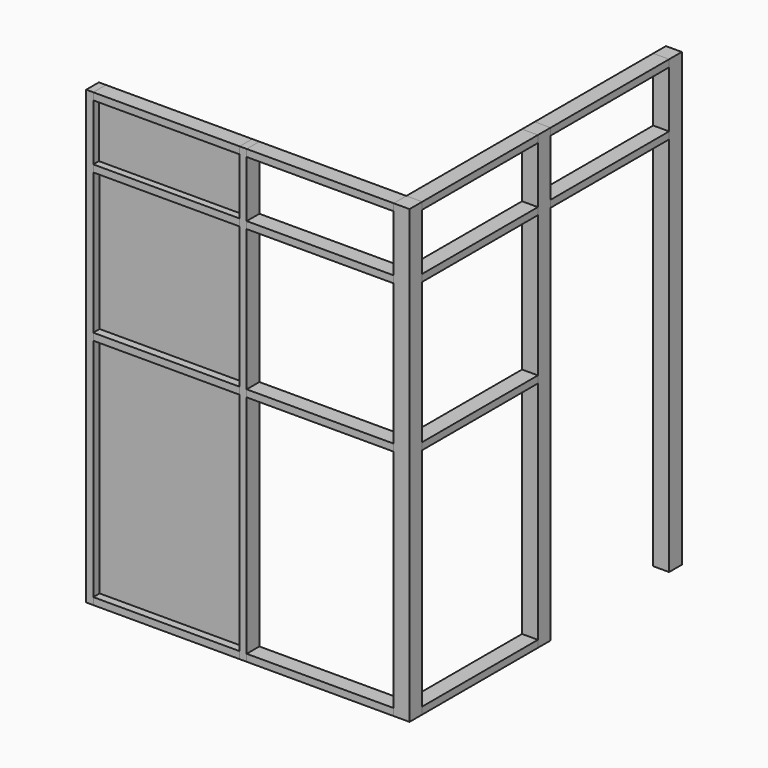
from build123d import *

# Parameters (mm, degrees)
F0_W      = 38.1
F0_H      = 85.725
F1_DEPTH  = 2438.4
F0_W_2    = 85.725
F3_W      = 85.725
F3_H      = 38.1
F4_DEPTH  = 790.575
F2_W      = 85.725
F2_H      = 38.1
F5_DEPTH  = 793.75
F6_W      = 85.725
F6_H      = 38.1
F7_DEPTH  = 781.05
F8_W      = 85.725
F8_H      = 38.1
F9_DEPTH  = 781.05
F10_W     = 85.725
F10_H     = 38.1
F11_DEPTH = 793.75
F12_W     = 85.725
F12_H     = 38.1
F13_DEPTH = 790.575
F14_W     = 85.725
F14_H     = 38.1
F15_DEPTH = 800.1
F16_W     = 85.725
F16_H     = 38.1
F17_DEPTH = 790.575
F18_W     = 85.725
F18_H     = 38.1
F19_DEPTH = 793.75
F20_W     = 85.725
F20_H     = 38.1
F21_DEPTH = 781.05
F22_W     = 85.725
F22_H     = 38.1
F23_DEPTH = 800.1
F24_W     = 85.725
F24_H     = 38.1
F25_DEPTH = 781.05
F26_W     = 85.725
F26_H     = 38.1
F27_DEPTH = 793.75
F28_W     = 85.725
F28_H     = 38.1
F29_DEPTH = 790.575
F30_W     = 790.575
F30_H     = 9.525
F31_DEPTH = 1219.2
F32_W     = 790.575
F32_H     = 9.525
F33_DEPTH = 762
F34_W     = 790.575
F34_H     = 9.525
F35_DEPTH = 304.8


with BuildPart() as f1:
    # F0 (on Top) → F1 (new body)
    with BuildSketch(Plane.XY):
        with Locations((19.05, 42.8625)):
            Rectangle(F0_W, F0_H)
    extrude(amount=F1_DEPTH)


with BuildPart() as f1b:
    # F0 (on Top) → F1, piece 2 (new body)
    with BuildSketch(Plane.XY):
        with Locations((847.725, 42.8625)):
            Rectangle(F0_W, F0_H)
    extrude(amount=F1_DEPTH)


with BuildPart() as f1c:
    # F0 (on Top) → F1, piece 3 (new body)
    with BuildSketch(Plane.XY):
        with Locations((1703.3875, 42.8625)):
            Rectangle(F0_W_2, F0_H)
    extrude(amount=F1_DEPTH)


with BuildPart() as f1d:
    # F0 (on Top) → F1, piece 4 (new body)
    with BuildSketch(Plane.XY):
        with Locations((1703.3875, 909.6375)):
            Rectangle(F0_W_2, F0_H)
    extrude(amount=F1_DEPTH)


with BuildPart() as f1e:
    # F0 (on Top) → F1, piece 5 (new body)
    with BuildSketch(Plane.XY):
        with Locations((1703.3875, 1795.4625)):
            Rectangle(F0_W_2, F0_H)
    extrude(amount=F1_DEPTH)


with BuildPart() as f4:
    # F3 (on face) → F4 (new body, through all)
    with BuildSketch(Plane.YZ.offset(38.1)):
        with Locations((42.8625, 19.05)):
            Rectangle(F3_W, F3_H)
    extrude(amount=F4_DEPTH)


with BuildPart() as f5:
    # F2 (on face) → F5 (new body)
    with BuildSketch(Plane.YZ.offset(866.775)):
        with Locations((42.8625, 19.05)):
            Rectangle(F2_W, F2_H)
    extrude(amount=F5_DEPTH)


with BuildPart() as f7:
    # F6 (on face) → F7 (new body, through all)
    with BuildSketch(Plane(origin=(0, 85.725, 0), x_dir=(-1, 0, 0), z_dir=(0, 1, 0))):
        with Locations((-1703.3875, 19.05)):
            Rectangle(F6_W, F6_H)
    extrude(amount=F7_DEPTH)


with BuildPart() as f9:
    # F8 (on face) → F9 (new body, through all)
    with BuildSketch(Plane(origin=(0, 85.725, 0), x_dir=(-1, 0, 0), z_dir=(0, 1, 0))):
        with Locations((-1703.3875, 2419.35)):
            Rectangle(F8_W, F8_H)
    extrude(amount=F9_DEPTH)


with BuildPart() as f11:
    # F10 (on face) → F11 (new body, through all)
    with BuildSketch(Plane.YZ.offset(866.775)):
        with Locations((42.8625, 2419.35)):
            Rectangle(F10_W, F10_H)
    extrude(amount=F11_DEPTH)


with BuildPart() as f13:
    # F12 (on face) → F13 (new body, through all)
    with BuildSketch(Plane.YZ.offset(38.1)):
        with Locations((42.8625, 2419.35)):
            Rectangle(F12_W, F12_H)
    extrude(amount=F13_DEPTH)


with BuildPart() as f15:
    # F14 (on face) → F15 (new body, through all)
    with BuildSketch(Plane(origin=(0, 952.5, 0), x_dir=(-1, 0, 0), z_dir=(0, 1, 0))):
        with Locations((-1703.3875, 2419.35)):
            Rectangle(F14_W, F14_H)
    extrude(amount=F15_DEPTH)


with BuildPart() as f17:
    # F16 (on face) → F17 (new body, through all)
    with BuildSketch(Plane.YZ.offset(38.1)):
        with Locations((42.8625, 2076.45)):
            Rectangle(F16_W, F16_H)
    extrude(amount=F17_DEPTH)


with BuildPart() as f19:
    # F18 (on face) → F19 (new body, through all)
    with BuildSketch(Plane.YZ.offset(866.775)):
        with Locations((42.8625, 2076.45)):
            Rectangle(F18_W, F18_H)
    extrude(amount=F19_DEPTH)


with BuildPart() as f21:
    # F20 (on face) → F21 (new body, through all)
    with BuildSketch(Plane(origin=(0, 85.725, 0), x_dir=(-1, 0, 0), z_dir=(0, 1, 0))):
        with Locations((-1703.3875, 2076.45)):
            Rectangle(F20_W, F20_H)
    extrude(amount=F21_DEPTH)


with BuildPart() as f23:
    # F22 (on face) → F23 (new body, through all)
    with BuildSketch(Plane(origin=(0, 952.5, 0), x_dir=(-1, 0, 0), z_dir=(0, 1, 0))):
        with Locations((-1703.3875, 2076.45)):
            Rectangle(F22_W, F22_H)
    extrude(amount=F23_DEPTH)


with BuildPart() as f25:
    # F24 (on face) → F25 (new body, through all)
    with BuildSketch(Plane(origin=(0, 85.725, 0), x_dir=(-1, 0, 0), z_dir=(0, 1, 0))):
        with Locations((-1703.3875, 1276.35)):
            Rectangle(F24_W, F24_H)
    extrude(amount=F25_DEPTH)


with BuildPart() as f27:
    # F26 (on face) → F27 (new body, through all)
    with BuildSketch(Plane.YZ.offset(866.775)):
        with Locations((42.8625, 1276.35)):
            Rectangle(F26_W, F26_H)
    extrude(amount=F27_DEPTH)


with BuildPart() as f29:
    # F28 (on face) → F29 (new body, through all)
    with BuildSketch(Plane.YZ.offset(38.1)):
        with Locations((42.8625, 1276.35)):
            Rectangle(F28_W, F28_H)
    extrude(amount=F29_DEPTH)


with BuildPart() as f31:
    # F30 (on face) → F31 (new body, through all)
    with BuildSketch(Plane.XY.offset(38.1)):
        with Locations((433.3875, 47.625)):
            Rectangle(F30_W, F30_H)
    extrude(amount=F31_DEPTH)


with BuildPart() as f33:
    # F32 (on face) → F33 (new body, through all)
    with BuildSketch(Plane.XY.offset(1295.4)):
        with Locations((433.3875, 47.625)):
            Rectangle(F32_W, F32_H)
    extrude(amount=F33_DEPTH)


with BuildPart() as f35:
    # F34 (on face) → F35 (new body, through all)
    with BuildSketch(Plane.XY.offset(2095.5)):
        with Locations((433.3875, 42.8625)):
            Rectangle(F34_W, F34_H)
    extrude(amount=F35_DEPTH)


solid = Compound([f1.part, f1b.part, f1c.part, f1d.part, f1e.part, f4.part, f5.part, f7.part, f9.part, f11.part, f13.part, f15.part, f17.part, f19.part, f21.part, f23.part, f25.part, f27.part, f29.part, f31.part, f33.part, f35.part])
